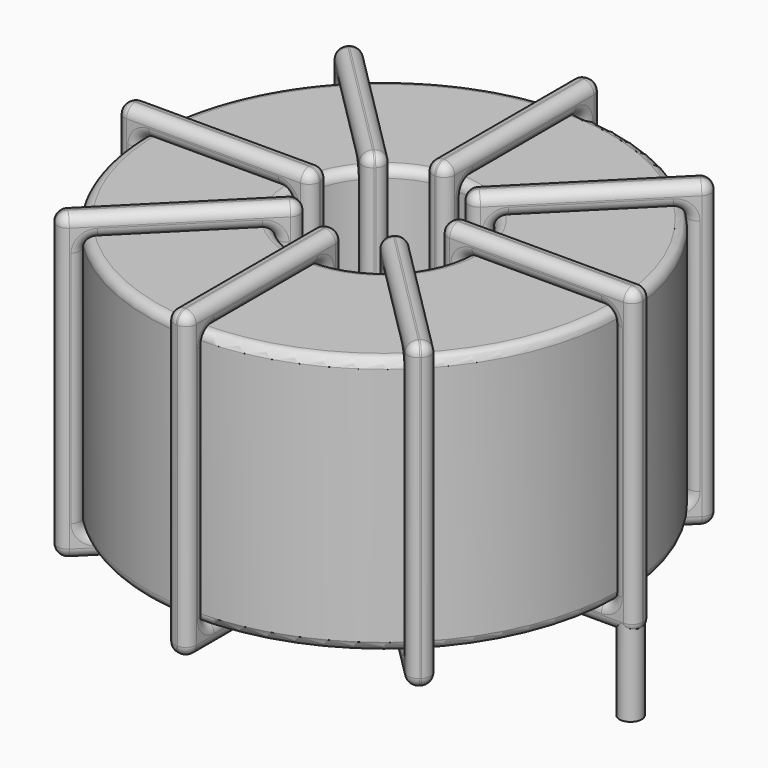
from build123d import *

# Parameters (mm, degrees)
SKETCH001_R       = 0.6
PAD001_DEPTH      = 0.6
PAD001_DEPTH_BACK = 4.7
SKETCH_R          = 12.8
SKETCH_R_2        = 4.666667
PAD_DEPTH         = 14
FILLET_R          = 0.5
SKETCH003_W       = 10.533333
SKETCH003_H       = 16.4
SKETCH003_W_2     = 8.133333
SKETCH003_H_2     = 14
PAD002_DEPTH      = 0.6
FILLET001_R       = 0.564
SKETCH004_W       = 10.533333
SKETCH004_H       = 16.4
SKETCH004_W_2     = 8.133333
SKETCH004_H_2     = 14
PAD003_DEPTH      = 0.6
FILLET002_R       = 0.564
SKETCH005_W       = 10.533333
SKETCH005_H       = 16.4
SKETCH005_W_2     = 8.133333
SKETCH005_H_2     = 14
PAD004_DEPTH      = 0.6
FILLET003_R       = 0.564
SKETCH006_W       = 10.533333
SKETCH006_H       = 16.4
SKETCH006_W_2     = 8.133333
SKETCH006_H_2     = 14
PAD005_DEPTH      = 0.6
FILLET004_R       = 0.564


with BuildPart() as pad001:
    # Sketch001 → Pad001 (new body, two sides)
    with BuildSketch(Plane.XY.offset(1.1)) as pad001_sk:
        Circle(SKETCH001_R)
        with Locations((26.67, 0)):
            Circle(SKETCH001_R)
    extrude(amount=PAD001_DEPTH)
    extrude(pad001_sk.sketch, amount=-PAD001_DEPTH_BACK)


with BuildPart() as fillet_body:
    # Sketch → Pad (new body)
    with BuildSketch(Plane.XY.offset(1.7)):
        with Locations((13.335, 0)):
            Circle(SKETCH_R)
        with Locations((13.335, 0)):
            Circle(SKETCH_R_2, mode=Mode.SUBTRACT)
    extrude(amount=PAD_DEPTH)

    # Fillet
    fillet_edges = [fillet_body.edges().sort_by_distance(p)[0] for p in [
        (8.668333, 0, 15.7),
        (0.535, 0, 15.7),
        (0.535, 0, 1.7),
    ]]
    fillet(fillet_edges, radius=FILLET_R)


with BuildPart() as fillet001:
    # Sketch003 → Pad002 (new body, symmetric)
    with BuildSketch(Plane(origin=(13.335, 0, 0), x_dir=(1, 0, 0), z_dir=(0, -1, 0))):
        with Locations((-8.733334, 8.7)):
            Rectangle(SKETCH003_W, SKETCH003_H)
        with Locations((-8.733333, 8.7)):
            Rectangle(SKETCH003_W_2, SKETCH003_H_2, mode=Mode.SUBTRACT)
        with Locations((8.733334, 8.7)):
            Rectangle(SKETCH003_W, SKETCH003_H)
        with Locations((8.733333, 8.7)):
            Rectangle(SKETCH003_W_2, SKETCH003_H_2, mode=Mode.SUBTRACT)
    extrude(amount=PAD002_DEPTH, both=True)

    # Fillet001
    fillet001_edges = [fillet001.edges().sort_by_distance(p)[0] for p in [
        (8.668333, 0, 15.7),
        (8.668333, 0, 1.7),
        (8.668333, 0.6, 8.7),
        (8.668333, -0.6, 8.7),
        (-0.665, 0, 16.9),
        (9.868333, 0, 16.9),
        (4.601667, 0.6, 16.9),
        (4.601667, -0.6, 16.9),
        (9.868333, 0, 0.5),
        (9.868333, 0.6, 8.7),
        (9.868333, -0.6, 8.7),
        (18.001667, 0, 15.7),
        (26.135, 0, 15.7),
        (22.068333, 0.6, 15.7),
        (22.068333, -0.6, 15.7),
        (26.135, 0, 1.7),
        (26.135, 0.6, 8.7),
        (26.135, -0.6, 8.7),
        (16.801667, 0, 16.9),
        (27.335, 0, 16.9),
        (22.068333, 0.6, 16.9),
        (22.068333, -0.6, 16.9),
        (27.335, 0, 0.5),
        (27.335, 0.6, 8.7),
        (27.335, -0.6, 8.7),
        (0.535, 0, 15.7),
        (4.601667, 0.6, 15.7),
        (4.601667, -0.6, 15.7),
        (18.001667, 0, 1.7),
        (18.001667, 0.6, 8.7),
        (18.001667, -0.6, 8.7),
        (22.068333, 0.6, 1.7),
        (22.068333, -0.6, 1.7),
        (16.801667, 0, 0.5),
        (22.068333, 0.6, 0.5),
        (22.068333, -0.6, 0.5),
        (16.801667, 0.6, 8.7),
        (16.801667, -0.6, 8.7),
        (-0.665, 0, 0.5),
        (4.601667, 0.6, 0.5),
        (4.601667, -0.6, 0.5),
        (-0.665, 0.6, 8.7),
        (-0.665, -0.6, 8.7),
        (0.535, 0, 1.7),
        (0.535, 0.6, 8.7),
        (0.535, -0.6, 8.7),
        (4.601667, 0.6, 1.7),
        (4.601667, -0.6, 1.7),
    ]]
    fillet(fillet001_edges, radius=FILLET001_R)


with BuildPart() as fillet002:
    # Sketch004 → Pad003 (new body, symmetric)
    with BuildSketch(Plane(origin=(13.335, 0, 0), x_dir=(0.707107, 0.707107, 0), z_dir=(0.707107, -0.707107, 0))):
        with Locations((-8.733334, 8.7)):
            Rectangle(SKETCH004_W, SKETCH004_H)
        with Locations((-8.733333, 8.7)):
            Rectangle(SKETCH004_W_2, SKETCH004_H_2, mode=Mode.SUBTRACT)
        with Locations((8.733334, 8.7)):
            Rectangle(SKETCH004_W, SKETCH004_H)
        with Locations((8.733333, 8.7)):
            Rectangle(SKETCH004_W_2, SKETCH004_H_2, mode=Mode.SUBTRACT)
    extrude(amount=PAD003_DEPTH, both=True)

    # Fillet002
    fillet002_edges = [fillet002.edges().sort_by_distance(p)[0] for p in [
        (4.284033, -9.050967, 15.7),
        (10.035168, -3.299832, 1.7),
        (6.735337, -5.751135, 1.7),
        (7.583865, -6.599663, 1.7),
        (3.435505, -9.899495, 16.9),
        (10.883696, -2.451304, 16.9),
        (6.735337, -5.751135, 16.9),
        (7.583865, -6.599663, 16.9),
        (10.883696, -2.451304, 0.5),
        (10.459432, -2.027039, 8.7),
        (11.307961, -2.875568, 8.7),
        (16.634832, 3.299832, 1.7),
        (16.634832, 3.299832, 15.7),
        (16.210568, 3.724096, 8.7),
        (17.059096, 2.875568, 8.7),
        (22.385967, 9.050967, 1.7),
        (19.086135, 6.599663, 1.7),
        (19.934663, 5.751135, 1.7),
        (15.786304, 2.451304, 16.9),
        (23.234495, 9.899495, 16.9),
        (19.086135, 6.599663, 16.9),
        (19.934663, 5.751135, 16.9),
        (23.234495, 9.899495, 0.5),
        (22.810231, 10.323759, 8.7),
        (23.658759, 9.475231, 8.7),
        (4.284033, -9.050967, 1.7),
        (3.859769, -8.626703, 8.7),
        (4.708297, -9.475231, 8.7),
        (22.385967, 9.050967, 15.7),
        (19.086135, 6.599663, 15.7),
        (19.934663, 5.751135, 15.7),
        (21.961703, 9.475231, 8.7),
        (22.810231, 8.626703, 8.7),
        (15.786304, 2.451304, 0.5),
        (19.086135, 6.599663, 0.5),
        (19.934663, 5.751135, 0.5),
        (15.362039, 2.875568, 8.7),
        (16.210568, 2.027039, 8.7),
        (3.435505, -9.899495, 0.5),
        (6.735337, -5.751135, 0.5),
        (7.583865, -6.599663, 0.5),
        (3.011241, -9.475231, 8.7),
        (3.859769, -10.323759, 8.7),
        (10.035168, -3.299832, 15.7),
        (6.735337, -5.751135, 15.7),
        (7.583865, -6.599663, 15.7),
        (9.610904, -2.875568, 8.7),
        (10.459432, -3.724096, 8.7),
    ]]
    fillet(fillet002_edges, radius=FILLET002_R)


with BuildPart() as fillet003:
    # Sketch005 → Pad004 (new body, symmetric)
    with BuildSketch(Plane(origin=(13.335, 0, 0), x_dir=(0.707107, -0.707107, 0), z_dir=(-0.707107, -0.707107, 0))):
        with Locations((-8.733334, 8.7)):
            Rectangle(SKETCH005_W, SKETCH005_H)
        with Locations((-8.733333, 8.7)):
            Rectangle(SKETCH005_W_2, SKETCH005_H_2, mode=Mode.SUBTRACT)
        with Locations((8.733334, 8.7)):
            Rectangle(SKETCH005_W, SKETCH005_H)
        with Locations((8.733333, 8.7)):
            Rectangle(SKETCH005_W_2, SKETCH005_H_2, mode=Mode.SUBTRACT)
    extrude(amount=PAD004_DEPTH, both=True)

    # Fillet003
    fillet003_edges = [fillet003.edges().sort_by_distance(p)[0] for p in [
        (10.035168, 3.299832, 15.7),
        (10.035168, 3.299832, 1.7),
        (10.459432, 3.724096, 8.7),
        (9.610904, 2.875568, 8.7),
        (3.435505, 9.899495, 16.9),
        (10.883696, 2.451304, 16.9),
        (7.583865, 6.599663, 16.9),
        (6.735337, 5.751135, 16.9),
        (10.883696, 2.451304, 0.5),
        (11.307961, 2.875568, 8.7),
        (10.459432, 2.027039, 8.7),
        (16.634832, -3.299832, 15.7),
        (22.385967, -9.050967, 15.7),
        (19.934663, -5.751135, 15.7),
        (19.086135, -6.599663, 15.7),
        (22.385967, -9.050967, 1.7),
        (22.810231, -8.626703, 8.7),
        (21.961703, -9.475231, 8.7),
        (15.786304, -2.451304, 16.9),
        (23.234495, -9.899495, 16.9),
        (19.934663, -5.751135, 16.9),
        (19.086135, -6.599663, 16.9),
        (23.234495, -9.899495, 0.5),
        (23.658759, -9.475231, 8.7),
        (22.810231, -10.323759, 8.7),
        (4.284033, 9.050967, 15.7),
        (7.583865, 6.599663, 15.7),
        (6.735337, 5.751135, 15.7),
        (16.634832, -3.299832, 1.7),
        (17.059096, -2.875568, 8.7),
        (16.210568, -3.724096, 8.7),
        (19.934663, -5.751135, 1.7),
        (19.086135, -6.599663, 1.7),
        (15.786304, -2.451304, 0.5),
        (19.934663, -5.751135, 0.5),
        (19.086135, -6.599663, 0.5),
        (16.210568, -2.027039, 8.7),
        (15.362039, -2.875568, 8.7),
        (3.435505, 9.899495, 0.5),
        (7.583865, 6.599663, 0.5),
        (6.735337, 5.751135, 0.5),
        (3.859769, 10.323759, 8.7),
        (3.011241, 9.475231, 8.7),
        (4.284033, 9.050967, 1.7),
        (4.708297, 9.475231, 8.7),
        (3.859769, 8.626703, 8.7),
        (7.583865, 6.599663, 1.7),
        (6.735337, 5.751135, 1.7),
    ]]
    fillet(fillet003_edges, radius=FILLET003_R)


with BuildPart() as fillet004:
    # Sketch006 → Pad005 (new body, symmetric)
    with BuildSketch(Plane.YZ.offset(13.335)):
        with Locations((-8.733334, 8.7)):
            Rectangle(SKETCH006_W, SKETCH006_H)
        with Locations((-8.733333, 8.7)):
            Rectangle(SKETCH006_W_2, SKETCH006_H_2, mode=Mode.SUBTRACT)
        with Locations((8.733334, 8.7)):
            Rectangle(SKETCH006_W, SKETCH006_H)
        with Locations((8.733333, 8.7)):
            Rectangle(SKETCH006_W_2, SKETCH006_H_2, mode=Mode.SUBTRACT)
    extrude(amount=PAD005_DEPTH, both=True)

    # Fillet004
    fillet004_edges = [fillet004.edges().sort_by_distance(p)[0] for p in [
        (13.335, -4.666667, 15.7),
        (13.335, -4.666667, 1.7),
        (12.735, -4.666667, 8.7),
        (13.935, -4.666667, 8.7),
        (13.335, -14, 16.9),
        (13.335, -3.466667, 16.9),
        (12.735, -8.733333, 16.9),
        (13.935, -8.733333, 16.9),
        (13.335, -3.466667, 0.5),
        (12.735, -3.466667, 8.7),
        (13.935, -3.466667, 8.7),
        (13.335, 4.666667, 15.7),
        (13.335, 12.8, 15.7),
        (12.735, 8.733333, 15.7),
        (13.935, 8.733333, 15.7),
        (13.335, 12.8, 1.7),
        (12.735, 12.8, 8.7),
        (13.935, 12.8, 8.7),
        (13.335, 3.466667, 16.9),
        (13.335, 14, 16.9),
        (12.735, 8.733333, 16.9),
        (13.935, 8.733333, 16.9),
        (13.335, 14, 0.5),
        (12.735, 14, 8.7),
        (13.935, 14, 8.7),
        (13.335, -12.8, 15.7),
        (12.735, -8.733333, 15.7),
        (13.935, -8.733333, 15.7),
        (13.335, 4.666667, 1.7),
        (12.735, 4.666667, 8.7),
        (13.935, 4.666667, 8.7),
        (12.735, 8.733333, 1.7),
        (13.935, 8.733333, 1.7),
        (13.335, 3.466667, 0.5),
        (12.735, 8.733333, 0.5),
        (13.935, 8.733333, 0.5),
        (12.735, 3.466667, 8.7),
        (13.935, 3.466667, 8.7),
        (13.335, -14, 0.5),
        (12.735, -8.733333, 0.5),
        (13.935, -8.733333, 0.5),
        (12.735, -14, 8.7),
        (13.935, -14, 8.7),
        (13.335, -12.8, 1.7),
        (12.735, -12.8, 8.7),
        (13.935, -12.8, 8.7),
        (12.735, -8.733333, 1.7),
        (13.935, -8.733333, 1.7),
    ]]
    fillet(fillet004_edges, radius=FILLET004_R)


solid = Compound([pad001.part, fillet_body.part, fillet001.part, fillet002.part, fillet003.part, fillet004.part])
